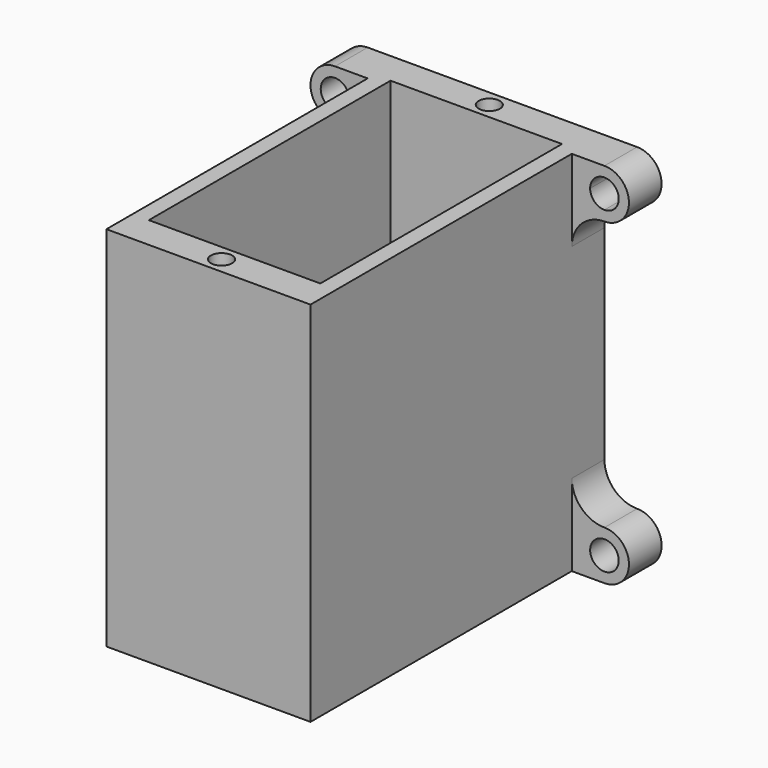
from build123d import *

# Parameters (mm, degrees)
F0_W     = 21
F0_H     = 37
F0_R     = 6
F0_H_2   = 4
F1_DEPTH = 5
F2_DEPTH = 45
F3_R     = 1.75
F4_DEPTH = 5
F5_R     = 1.3
F6_DEPTH = 10


with BuildPart() as f1:
    # F0 (on Top) → F1 (new body)
    with BuildSketch(Plane.XY):
        with Locations((3.617266193, -10.4946532761)):
            Rectangle(F0_W, F0_H)
        with Locations((3.617266193, -10.4946532761)):
            Circle(F0_R, mode=Mode.SUBTRACT)
        Polygon((16.117266193, 12.0053467239), (-8.882733807, 12.0053467239), (-8.882733807, 8.0053467239), (-6.882733807, 8.0053467239), (14.117266193, 8.0053467239), (16.117266193, 8.0053467239), align=None)
        Polygon((-6.882733807, 8.0053467239), (-8.882733807, 8.0053467239), (-8.882733807, -32.9946532761), (-6.882733807, -32.9946532761), (-6.882733807, -28.9946532761), align=None)
        Polygon((16.117266193, -32.9946532761), (16.117266193, 8.0053467239), (14.117266193, 8.0053467239), (14.117266193, -28.9946532761), (14.117266193, -32.9946532761), align=None)
        with Locations((3.617266193, -30.9946532761)):
            Rectangle(F0_W, F0_H_2)
    extrude(amount=F1_DEPTH)

    # F0 (on Top) → F2 (join)
    with BuildSketch(Plane.XY):
        Polygon((16.117266193, 12.0053467239), (-8.882733807, 12.0053467239), (-8.882733807, 8.0053467239), (-6.882733807, 8.0053467239), (14.117266193, 8.0053467239), (16.117266193, 8.0053467239), align=None)
        Polygon((-6.882733807, 8.0053467239), (-8.882733807, 8.0053467239), (-8.882733807, -32.9946532761), (-6.882733807, -32.9946532761), (-6.882733807, -28.9946532761), align=None)
        Polygon((16.117266193, -32.9946532761), (16.117266193, 8.0053467239), (14.117266193, 8.0053467239), (14.117266193, -28.9946532761), (14.117266193, -32.9946532761), align=None)
        with Locations((3.617266193, -30.9946532761)):
            Rectangle(F0_W, F0_H_2)
    extrude(amount=F2_DEPTH)

    # F3 (on face) → F4 (join)
    with BuildSketch(Plane(origin=(0, 12.0053467239, 0), x_dir=(-1, 0, 0), z_dir=(0, 1, 0))):
        with BuildLine():
            Line((-16.117266193, 35), (-16.117266193, 39))
            Line((-16.117266193, 39), (-20.117266193, 39))
            ThreePointArc((-20.117266193, 39), (-17.2888390683, 37.8284271247), (-16.117266193, 35))
        make_face()
        with BuildLine():
            Line((-16.117266193, 39), (-16.117266193, 45))
            Line((-16.117266193, 45), (-20.117266193, 45))
            Line((-20.117266193, 45), (-20.117266193, 43.75))
            ThreePointArc((-20.117266193, 43.75), (-18.879829326, 43.2374368671), (-18.367266193, 42))
            ThreePointArc((-18.367266193, 42), (-18.879829326, 40.7625631329), (-20.117266193, 40.25))
            Line((-20.117266193, 40.25), (-20.117266193, 39))
            Line((-20.117266193, 39), (-16.117266193, 39))
        make_face()
        with BuildLine():
            Line((-20.117266193, 43.75), (-20.117266193, 45))
            ThreePointArc((-20.117266193, 45), (-23.117266193, 42), (-20.117266193, 39))
            Line((-20.117266193, 39), (-20.117266193, 40.25))
            ThreePointArc((-20.117266193, 40.25), (-21.867266193, 42), (-20.117266193, 43.75))
        make_face()
        with BuildLine():
            Line((12.882733807, 45), (8.882733807, 45))
            Line((8.882733807, 45), (8.882733807, 39))
            Line((8.882733807, 39), (12.882733807, 39))
            ThreePointArc((12.882733807, 39), (15.882733807, 42), (12.882733807, 45))
        make_face()
        with Locations((12.882733807, 42)):
            Circle(F3_R, mode=Mode.SUBTRACT)
        with BuildLine():
            Line((12.882733807, 39), (8.882733807, 39))
            Line((8.882733807, 39), (8.882733807, 35))
            ThreePointArc((8.882733807, 35), (10.0543066822, 37.8284271247), (12.882733807, 39))
        make_face()
        with BuildLine():
            ThreePointArc((12.882733807, 0), (15.882733807, 3), (12.882733807, 6))
            Line((12.882733807, 6), (8.882733807, 6))
            Line((8.882733807, 6), (8.882733807, 0))
            Line((8.882733807, 0), (12.882733807, 0))
        make_face()
        with Locations((12.882733807, 3)):
            Circle(F3_R, mode=Mode.SUBTRACT)
        with BuildLine():
            ThreePointArc((12.882733807, 6), (10.0543066822, 7.1715728753), (8.882733807, 10))
            Line((8.882733807, 10), (8.882733807, 6))
            Line((8.882733807, 6), (12.882733807, 6))
        make_face()
        with BuildLine():
            Line((-16.117266193, 6), (-16.117266193, 10))
            ThreePointArc((-16.117266193, 10), (-17.2888390683, 7.1715728753), (-20.117266193, 6))
            Line((-20.117266193, 6), (-16.117266193, 6))
        make_face()
        with BuildLine():
            Line((-16.117266193, 6), (-20.117266193, 6))
            ThreePointArc((-20.117266193, 6), (-23.117266193, 3), (-20.117266193, 0))
            Line((-20.117266193, 0), (-16.117266193, 0))
            Line((-16.117266193, 0), (-16.117266193, 6))
        make_face()
        with Locations((-20.117266193, 3)):
            Circle(F3_R, mode=Mode.SUBTRACT)
    extrude(amount=-F4_DEPTH)

    # F5 (on face) → F6 (cut)
    with BuildSketch(Plane.XY.offset(45)):
        with Locations((3.617266193, 10.0053467239)):
            Circle(F5_R)
        with Locations((3.617266193, -30.9946532761)):
            Circle(F5_R)
    extrude(amount=-F6_DEPTH, mode=Mode.SUBTRACT)


solid = f1.part
